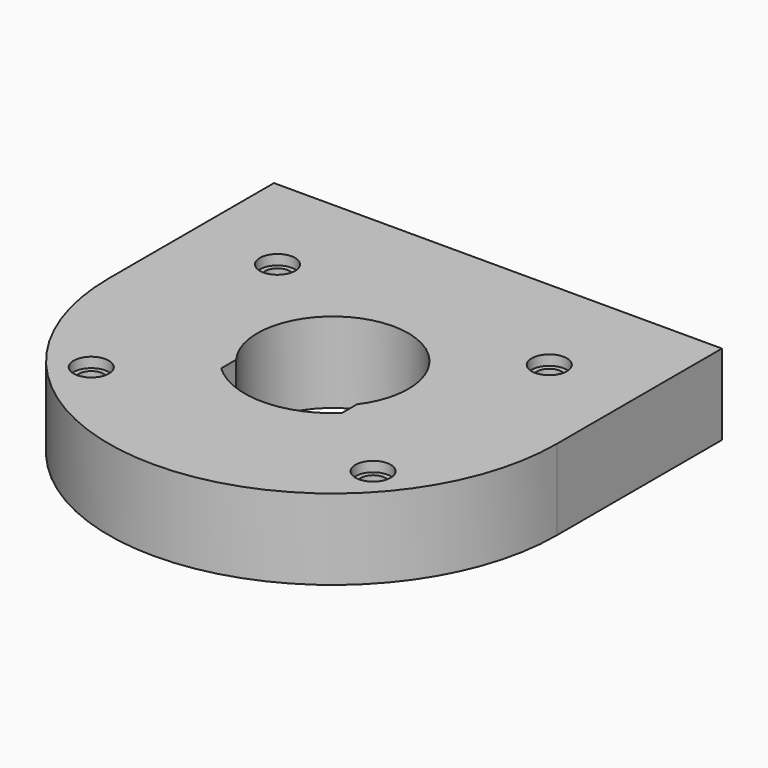
from build123d import *

# Parameters (mm, degrees)
F0_R     = 2.5
F1_DEPTH = 16
F2_R     = 3.5
F3_DEPTH = 2


with BuildPart() as f1:
    # F0 (on Top) → F1 (new body)
    with BuildSketch(Plane.XY):
        with BuildLine():
            Line((44.5, 41), (-44.5, 41))
            Line((-44.5, 41), (-44.5, 0))
            ThreePointArc((-44.5, 0), (0, -44.5), (44.5, 0))
            Line((44.5, 0), (44.5, 41))
        make_face()
        with Locations((-28, -25)):
            Circle(F0_R, mode=Mode.SUBTRACT)
        with Locations((28, -25)):
            Circle(F0_R, mode=Mode.SUBTRACT)
        with Locations((-27, 20)):
            Circle(F0_R, mode=Mode.SUBTRACT)
        with BuildLine():
            ThreePointArc((-12, -9), (0, 15), (12, -9))
            Line((12, -9), (12, -12.737739))
            ThreePointArc((12, -12.737739), (0, -17.5), (-12, -12.737739))
            Line((-12, -12.737739), (-12, -9))
        make_face(mode=Mode.SUBTRACT)
        with Locations((27, 20)):
            Circle(F0_R, mode=Mode.SUBTRACT)
    extrude(amount=F1_DEPTH)

    # F2 (on face) → F3 (cut)
    with BuildSketch(Plane.XY.offset(16)):
        with Locations((-27, 20)):
            Circle(F2_R)
        with Locations((-28, -25)):
            Circle(F2_R)
        with Locations((27, 20)):
            Circle(F2_R)
        with Locations((28, -25)):
            Circle(F2_R)
    extrude(amount=-F3_DEPTH, mode=Mode.SUBTRACT)


solid = f1.part
